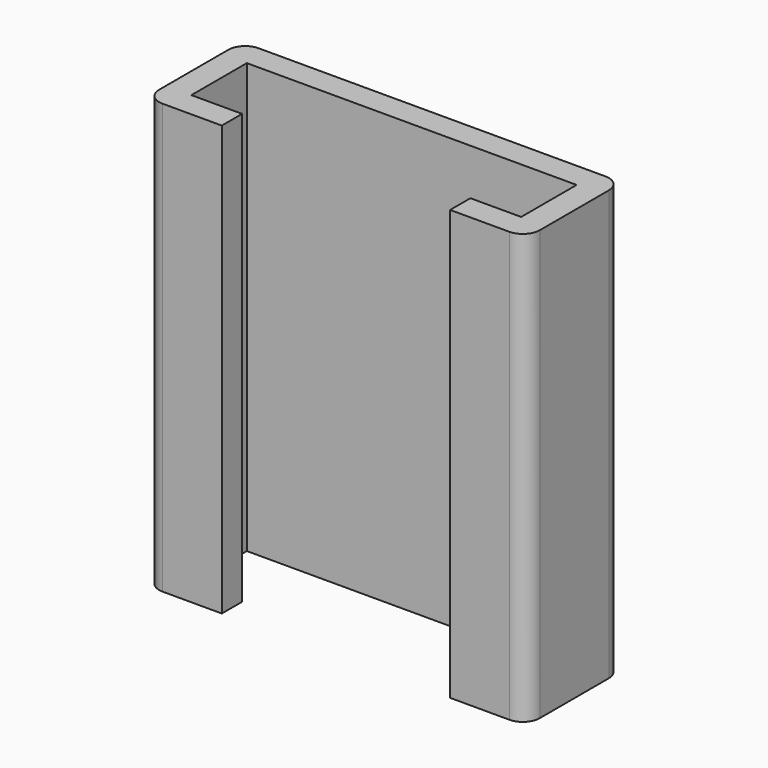
from build123d import *

# Parameters (mm, degrees)
F1_DEPTH = 25.4
F2_R     = 1
F3_R     = 1


with BuildPart() as f1:
    # F0 (on Top) → F1 (new body)
    with BuildSketch(Plane.XY):
        Polygon((-9.75, 0), (0, 0), (0, 1.5), (-11.25, 1.5), (-11.25, -5.6), (-6.75, -5.6), (-6.75, -4.1), (-9.75, -4.1), align=None)
        Polygon((0, 1.5), (0, 0), (9.75, 0), (9.75, -4.1), (6.75, -4.1), (6.75, -5.6), (11.25, -5.6), (11.25, 1.5), align=None)
    extrude(amount=F1_DEPTH)

    # F2
    f2_edges = [f1.edges().sort_by_distance(p)[0] for p in [
        (-11.25, 1.5, 12.7),
        (11.25, 1.5, 12.7),
    ]]
    fillet(f2_edges, radius=F2_R)

    # F3
    f3_edges = [f1.edges().sort_by_distance(p)[0] for p in [
        (-11.25, -5.6, 12.7),
        (11.25, -5.6, 12.7),
    ]]
    fillet(f3_edges, radius=F3_R)


solid = f1.part
